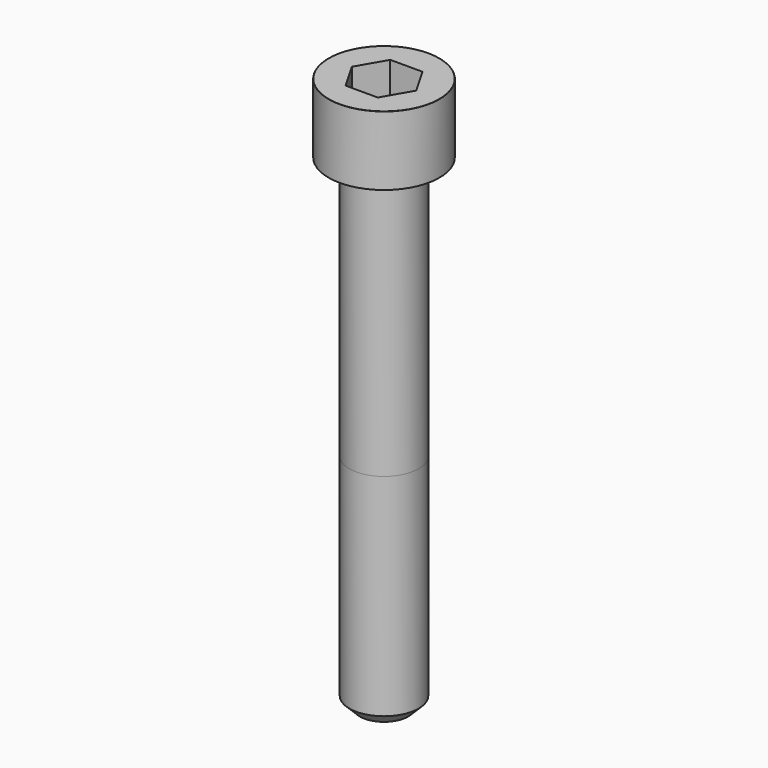
from build123d import *

# Parameters (mm, degrees)
POCKET_DEPTH = 8.07


with BuildPart() as part:
    # Sketch → Revolve (revolve)
    with BuildSketch(Plane.YZ):
        with BuildLine():
            Line((4.999, 0), (8, 0))
            Line((8, 0), (8, 9.97229))
            ThreePointArc((8, 9.97229), (7.991884, 9.991884), (7.97229, 10))
            Line((7.97229, 10), (0, 10))
            Line((0, -70), (0, 10))
            Line((3.5, -70), (0, -70))
            Line((5, -68.5), (3.5, -70))
            Line((5, -38), (5, -68.5))
            Line((4.999, 0), (5, -38))
        make_face()
    revolve(axis=Axis((0, 0, 0), (0, 0, 1)))

    # Sketch001 → Pocket (cut)
    with BuildSketch(Plane.XY.offset(10)):
        Polygon((4.659217, 0), (2.329608, 4.035), (-2.329608, 4.035), (-4.659217, 0), (-2.329608, -4.035), (2.329608, -4.035), align=None)
    extrude(amount=-POCKET_DEPTH, mode=Mode.SUBTRACT)


solid = part.part
